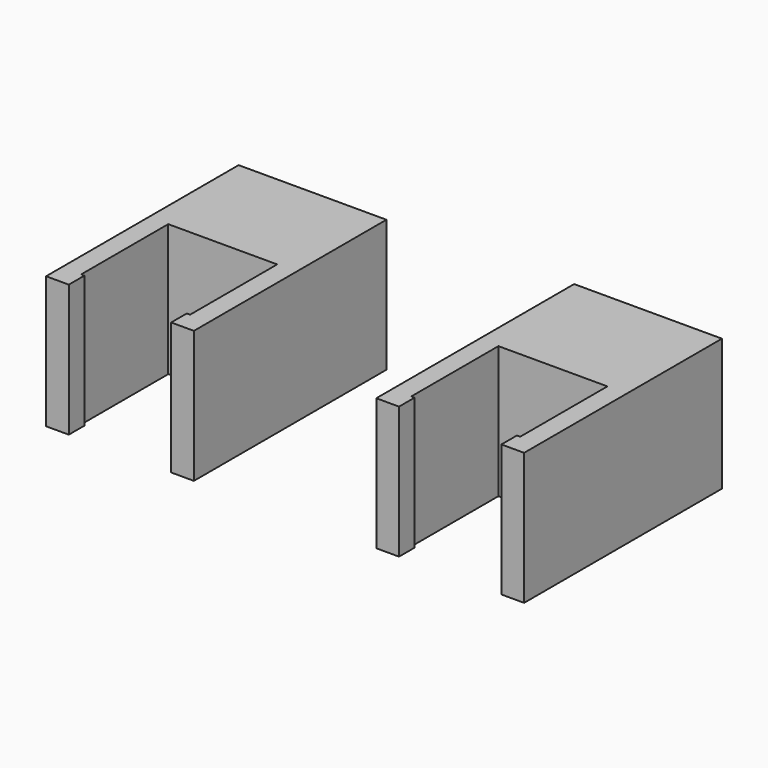
from build123d import *

# Parameters (mm, degrees)
PAD_DEPTH    = 20
PAD001_DEPTH = 20


with BuildPart() as smaller_clip:
    # Sketch → Pad (new body)
    with BuildSketch(Plane.XY):
        Polygon((8.25, -8.25), (8.25, 8.25), (-8.25, 8.25), (-8.25, -8.25), (-7.75, -8.25), (-7.75, -11.19), (-11.19, -11.19), (-11.19, 25.25), (11.19, 25.25), (11.19, -11.19), (7.75, -11.19), (7.75, -8.25), align=None)
    extrude(amount=PAD_DEPTH)


with BuildPart() as body:
    # Sketch001 → Pad001 (new body)
    with BuildSketch(Plane.XY):
        Polygon((58.25, -8.25), (58.25, 8.25), (41.75, 8.25), (41.75, -8.25), (42.25, -8.25), (42.25, -11.19), (38.81, -11.19), (38.81, 26.25), (61.19, 26.25), (61.19, -11.19), (57.75, -11.19), (57.75, -8.25), align=None)
    extrude(amount=PAD001_DEPTH)


solid = Compound([smaller_clip.part, body.part])
